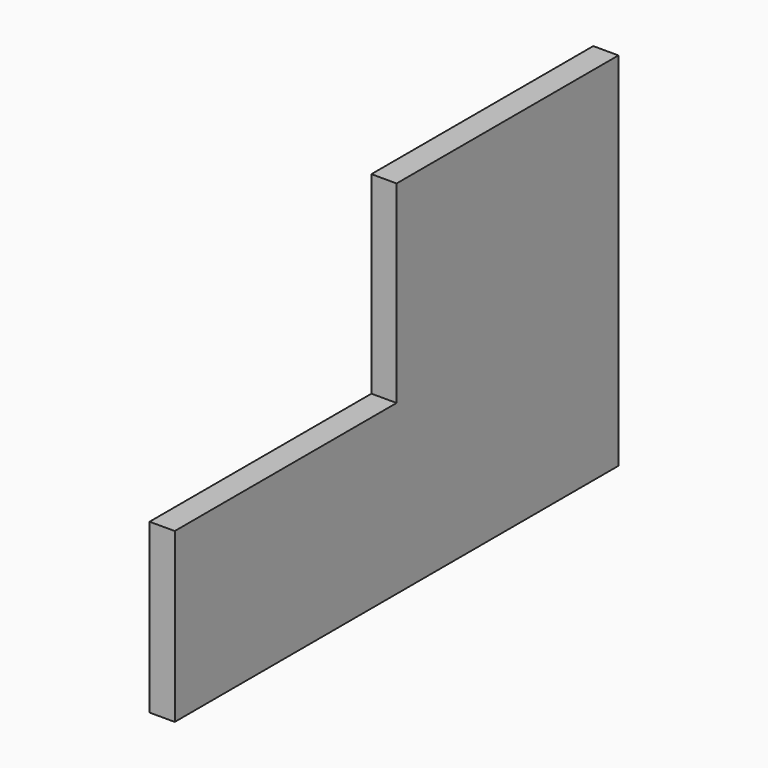
from build123d import *

# Parameters (mm, degrees)
F0_W     = 209.55
F0_H     = 146.05
F1_DEPTH = 19.05


with BuildPart() as f1:
    # F0 (on Right) → F1 (new body)
    with BuildSketch(Plane.YZ):
        with Locations((104.775, 73.025)):
            Rectangle(F0_W, F0_H)
        Polygon((209.55, 0), (0, 0), (-209.55, 0), (-209.55, -127), (209.55, -127), align=None)
    extrude(amount=F1_DEPTH)


solid = f1.part
